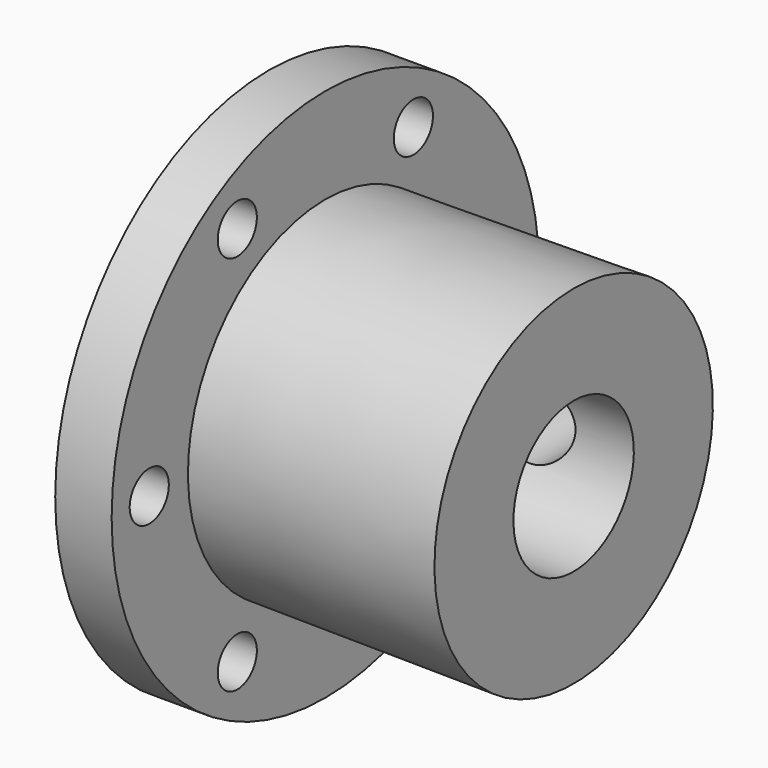
from build123d import *

# Parameters (mm, degrees)
F2_R     = 2.6
F3_DEPTH = 6
F4_R     = 4
F5_DEPTH = 28.401


with BuildPart() as f1:
    # F0 (on Front) → F1 (revolve)
    with BuildSketch(Plane.XZ):
        Polygon((48.080009, 8), (48.080009, 18.5), (21.681081, 18.262167), (21.681081, 28.4), (15.681081, 28.4), (15.681081, 8), align=None)
    revolve(axis=Axis((22.226226, 0, 0), (-1, 0, 0)))

    # F2 (on face) → F3 (cut)
    with BuildSketch(Plane.YZ.offset(21.681081)):
        with Locations((-23.400001, 0)):
            Circle(F2_R)
        with Locations((-11.7, -20.264995)):
            Circle(F2_R)
        with Locations((11.7, -20.264995)):
            Circle(F2_R)
        with Locations((23.400001, 0)):
            Circle(F2_R)
        with Locations((11.7, 20.264995)):
            Circle(F2_R)
        with Locations((-11.7, 20.264995)):
            Circle(F2_R)
    extrude(amount=-F3_DEPTH, mode=Mode.SUBTRACT)

    # F4 (on Front) → F5 (cut, through all)
    with BuildSketch(Plane.XZ):
        with Locations((37.880009, 0)):
            Circle(F4_R)
    extrude(amount=-F5_DEPTH, mode=Mode.SUBTRACT)


solid = f1.part
